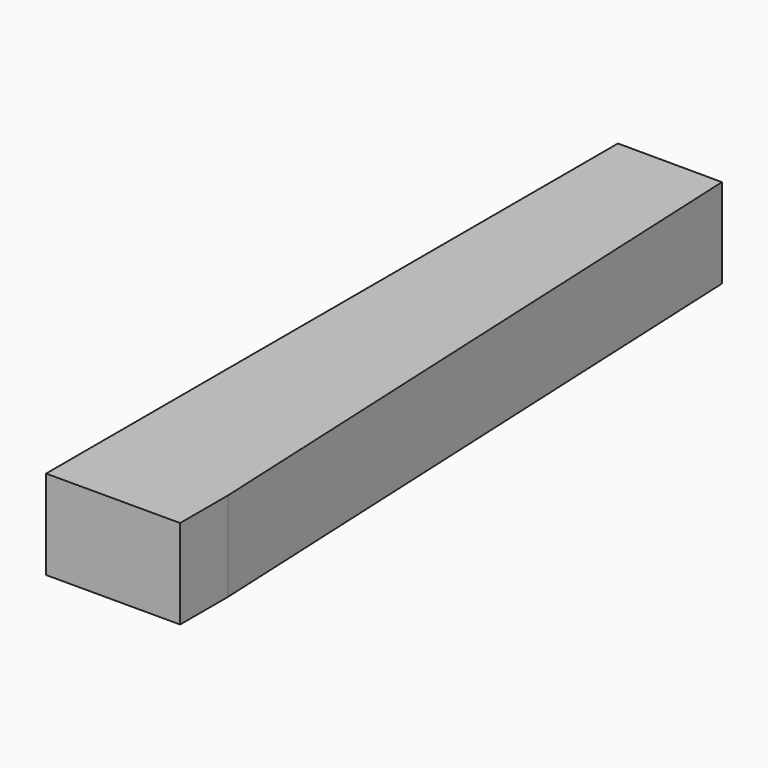
from build123d import *

# Parameters (mm, degrees)
F1_DEPTH      = 9.525
F1_DEPTH_BACK = 9.525


with BuildPart() as f1:
    # F0 (on Top) → F1 (new body, two sides)
    with BuildSketch(Plane.XY) as f1_sk:
        Polygon((22.224896, 76.132132), (0, 76.2), (0, -76.2), (28.575, -76.2), (28.575, -63.5), align=None)
    extrude(amount=F1_DEPTH)
    extrude(f1_sk.sketch, amount=-F1_DEPTH_BACK)


solid = f1.part
